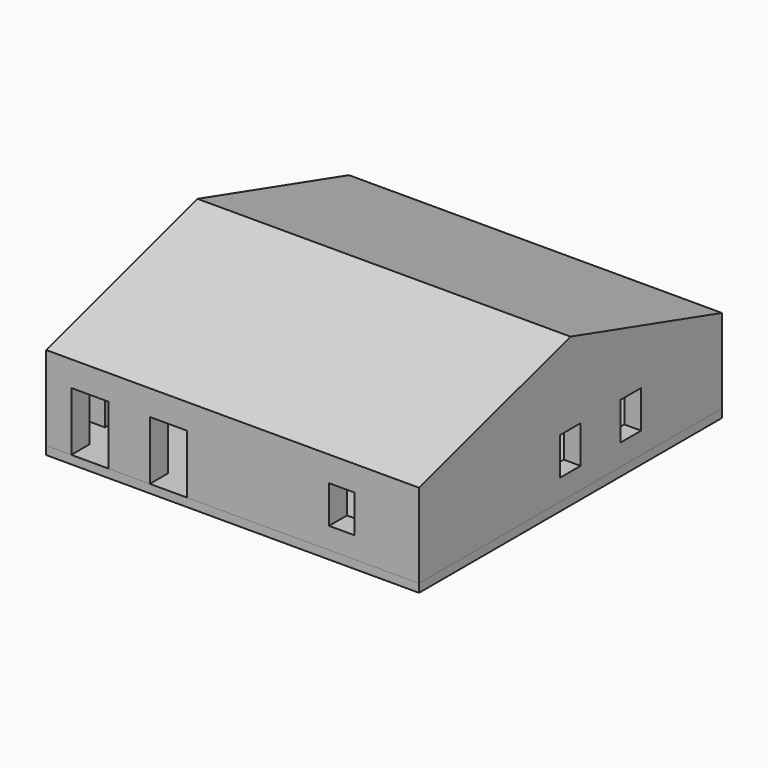
from build123d import *

# Parameters (mm, degrees)
F0_W      = 133
F0_H      = 135
F1_DEPTH  = 3
F2_W      = 133
F2_H      = 135
F2_W_2    = 121
F2_H_2    = 119
F3_DEPTH  = 25
F5_W      = 9.1
F5_H      = 13.4
F6_DEPTH  = 25
F7_W      = 9.15
F7_H      = 20.85
F8_DEPTH  = 8
F9_W      = 13.2
F9_H      = 21
F10_DEPTH = 8
F11_W     = 9.1
F11_H     = 13.4
F12_DEPTH = 8
F13_W     = 9.1
F13_H     = 13.4
F15_DEPTH = 8
F16_W     = 9.1
F16_H     = 13.4
F16_W_2   = 13.2
F16_H_2   = 21
F17_DEPTH = 8
F18_W     = 133
F18_H     = 135
F19_DEPTH = 25
F21_DEPTH = 133.001


with BuildPart() as f1:
    # F0 (on Top) → F1 (new body)
    with BuildSketch(Plane.XY):
        with Locations((66.5, -67.5)):
            Rectangle(F0_W, F0_H)
    extrude(amount=F1_DEPTH)


with BuildPart() as f3:
    # F2 (on face) → F3 (new body)
    with BuildSketch(Plane.XY.offset(3)):
        with Locations((66.5, -67.5)):
            Rectangle(F2_W, F2_H)
        with Locations((66.5, -67.5)):
            Rectangle(F2_W_2, F2_H_2, mode=Mode.SUBTRACT)
    extrude(amount=F3_DEPTH)

    # F5 (on face) → F6 (cut)
    with BuildSketch(Plane(origin=(0, 0, 0), x_dir=(0, -1, 0), z_dir=(-1, 0, 0))):
        with Locations((65.75, 17.3)):
            Rectangle(F5_W, F5_H)
    extrude(amount=-F6_DEPTH, mode=Mode.SUBTRACT)

    # F7 (on face) → F8 (cut)
    with BuildSketch(Plane(origin=(0, 0, 0), x_dir=(0, -1, 0), z_dir=(-1, 0, 0))):
        with Locations((103.425, 13.425)):
            Rectangle(F7_W, F7_H)
    extrude(amount=-F8_DEPTH, mode=Mode.SUBTRACT)

    # F9 (on face) → F10 (cut)
    with BuildSketch(Plane(origin=(0, 0, 0), x_dir=(0, -1, 0), z_dir=(-1, 0, 0))):
        with Locations((122.815568, 13.5)):
            Rectangle(F9_W, F9_H)
    extrude(amount=-F10_DEPTH, mode=Mode.SUBTRACT)

    # F11 (on face) → F12 (cut)
    with BuildSketch(Plane.YZ.offset(133)):
        with Locations((-67.55, 17.3)):
            Rectangle(F11_W, F11_H)
    extrude(amount=-F12_DEPTH, mode=Mode.SUBTRACT)

    # F13 (on face) → F15 (cut)
    with BuildSketch(Plane.YZ.offset(133)):
        with Locations((-40.55, 17.38312)):
            Rectangle(F13_W, F13_H)
    extrude(amount=-F15_DEPTH, mode=Mode.SUBTRACT)

    # F16 (on face) → F17 (cut)
    with BuildSketch(Plane.XZ.offset(135)):
        with Locations((105.45, 17.3)):
            Rectangle(F16_W, F16_H)
        with Locations((43.6, 13.5)):
            Rectangle(F16_W_2, F16_H_2)
        with Locations((15.6, 13.5)):
            Rectangle(F16_W_2, F16_H_2)
    extrude(amount=-F17_DEPTH, mode=Mode.SUBTRACT)

    # F18 (on face) → F19 (join)
    with BuildSketch(Plane.XY.offset(28)):
        with Locations((66.5, -67.5)):
            Rectangle(F18_W, F18_H)
    extrude(amount=F19_DEPTH)

    # F20 (on face) → F21 (cut, through all)
    with BuildSketch(Plane(origin=(0, 0, 0), x_dir=(0, -1, 0), z_dir=(-1, 0, 0))):
        Polygon((135, 53), (67.5, 53), (135, 33), align=None)
        Polygon((0, 33), (67.5, 53), (0, 53), align=None)
    extrude(amount=-F21_DEPTH, mode=Mode.SUBTRACT)


solid = Compound([f1.part, f3.part])
